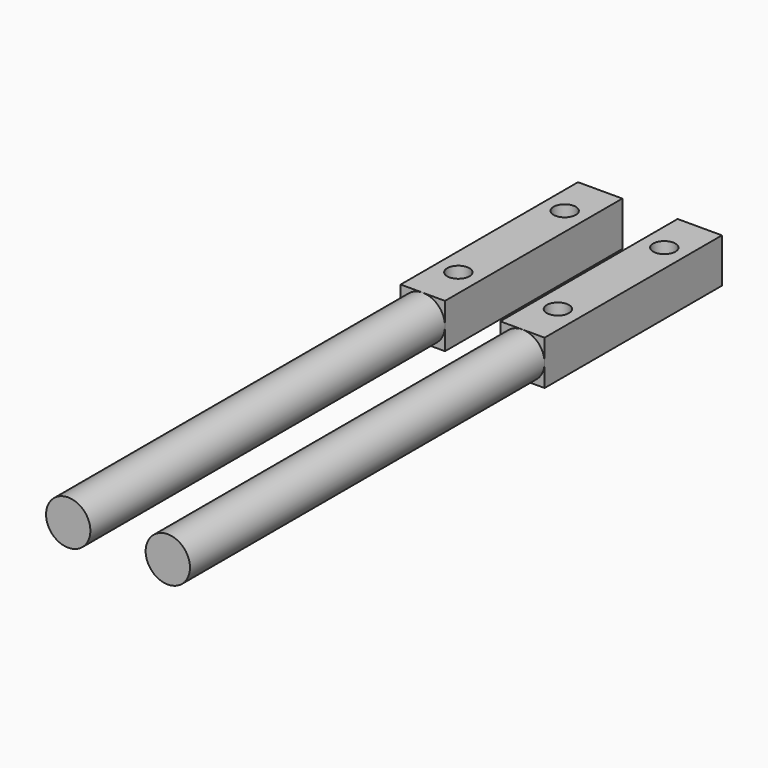
from build123d import *

# Parameters (mm, degrees)
F0_R      = 6.35
F1_DEPTH  = 127
F2_W      = 12.7
F2_H      = 12.7
F3_DEPTH  = 63.5
F4_R      = 3.175
F5_DEPTH  = 254
F6_R      = 6.35
F7_DEPTH  = 127
F8_W      = 12.7
F8_H      = 12.7
F9_DEPTH  = 63.5
F10_R     = 3.175
F11_DEPTH = 254


with BuildPart() as f1:
    # F0 (on Front) → F1 (new body)
    with BuildSketch(Plane.XZ):
        Circle(F0_R)
    extrude(amount=F1_DEPTH)

    # F2 (on Front) → F3 (join)
    with BuildSketch(Plane.XZ):
        Rectangle(F2_W, F2_H)
    extrude(amount=-F3_DEPTH)

    # F4 (on face) → F5 (cut)
    with BuildSketch(Plane.XY.offset(6.35)):
        with Locations((0, 12.7)):
            Circle(F4_R)
        with Locations((0, 50.8)):
            Circle(F4_R)
    extrude(amount=-F5_DEPTH, mode=Mode.SUBTRACT)


with BuildPart() as f7:
    # F6 (on Front) → F7 (new body)
    with BuildSketch(Plane.XZ):
        with Locations((28.534053, 0)):
            Circle(F6_R)
    extrude(amount=F7_DEPTH)

    # F8 (on Front) → F9 (join)
    with BuildSketch(Plane.XZ):
        with Locations((28.534053, 0)):
            Rectangle(F8_W, F8_H)
    extrude(amount=-F9_DEPTH)

    # F10 (on face) → F11 (cut)
    with BuildSketch(Plane.XY.offset(6.35)):
        with Locations((28.534053, 50.8)):
            Circle(F10_R)
        with Locations((28.534053, 12.7)):
            Circle(F10_R)
    extrude(amount=-F11_DEPTH, mode=Mode.SUBTRACT)


solid = Compound([f1.part, f7.part])
